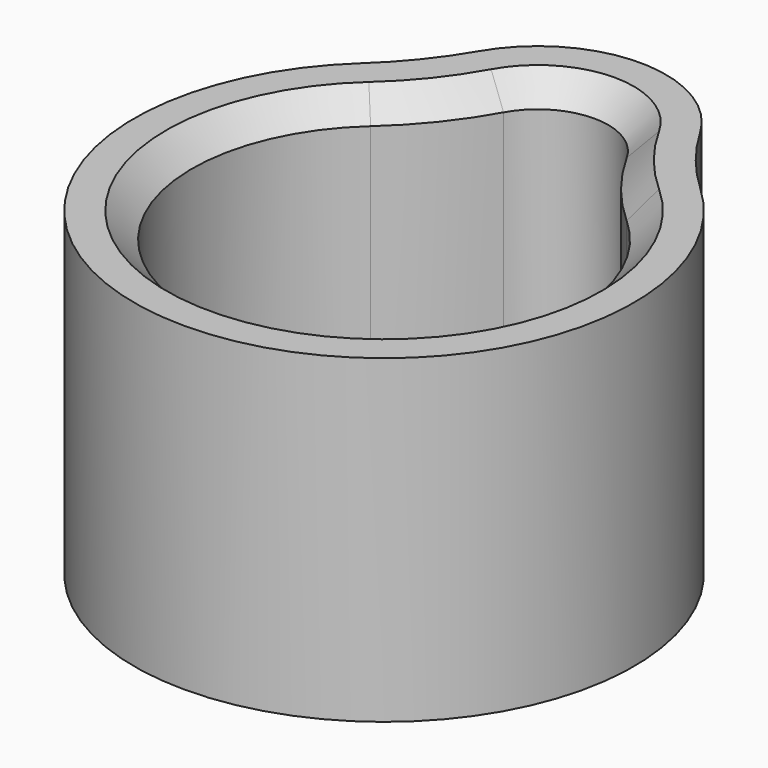
from build123d import *

# Parameters (mm, degrees)
F1_DEPTH = 5
F3_DEPTH = 1
F4_SIZE  = 0.4


with BuildPart() as f1:
    # F0 (on Top) → F1 (new body)
    with BuildSketch(Plane.XY):
        with BuildLine():
            ThreePointArc((-1.726239, 4.01), (-2.144514, 3.402767), (-2.647546, 2.863652))
            ThreePointArc((-2.647546, 2.863652), (0, -3.9), (2.647546, 2.863652))
            ThreePointArc((2.647546, 2.863652), (2.144514, 3.402767), (1.726239, 4.01))
            ThreePointArc((1.726239, 4.01), (0, 5), (-1.726239, 4.01))
        make_face()
        with BuildLine():
            ThreePointArc((1.999097, 2.236875), (0, -3), (-1.999097, 2.236875))
            ThreePointArc((-1.999097, 2.236875), (-1.425915, 2.842359), (-0.961315, 3.534672))
            ThreePointArc((-0.961315, 3.534672), (0, 4.1), (0.961315, 3.534672))
            ThreePointArc((0.961315, 3.534672), (1.425915, 2.842359), (1.999097, 2.236875))
        make_face(mode=Mode.SUBTRACT)
    extrude(amount=F1_DEPTH)

    # F2 (on Top) → F3 (join)
    with BuildSketch(Plane.XY):
        with BuildLine():
            ThreePointArc((-0.961315, 3.534672), (-1.425915, 2.842359), (-1.999097, 2.236875))
            ThreePointArc((-1.999097, 2.236875), (0, -3), (1.999097, 2.236875))
            ThreePointArc((1.999097, 2.236875), (1.425915, 2.842359), (0.961315, 3.534672))
            ThreePointArc((0.961315, 3.534672), (0, 4.1), (-0.961315, 3.534672))
        make_face()
    extrude(amount=F3_DEPTH)

    # F4
    f4_edges = [f1.edges().sort_by_distance(p)[0] for p in [
        (0, -3, 5),
    ]]
    chamfer(f4_edges, length=F4_SIZE)


solid = f1.part
